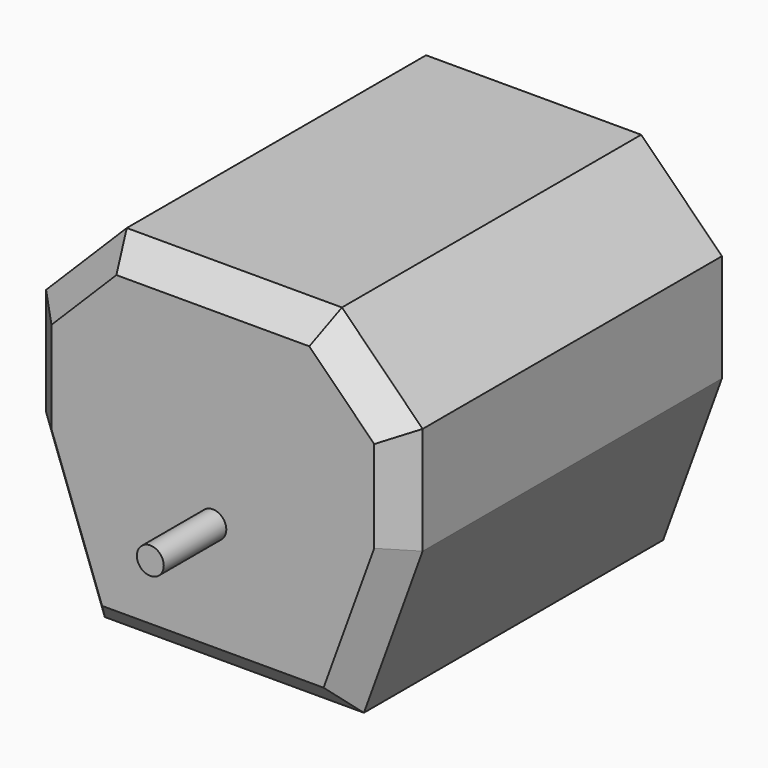
from build123d import *

# Parameters (mm, degrees)
F0_W       = 355.6
F0_H       = 330.2
F0_R       = 12.7
F1_DEPTH   = 406.4
F2_DEPTH   = 73.81875
F3_SIZE    = 76.2
F4_SIZE2   = 55.4690637022
F4_SIZE    = 152.4
F4_2_SIZE2 = 55.4690637022
F4_2_SIZE  = 152.4
F5_SIZE    = 25.4
F6_SIZE2   = 76.2
F6_SIZE    = 27.7345318511


with BuildPart() as f1:
    # F0 (on Front) → F1 (new body)
    with BuildSketch(Plane.XZ):
        with Locations((-25.4, 165.1)):
            Rectangle(F0_W, F0_H)
        with Locations((-25.4, 127)):
            Circle(F0_R, mode=Mode.SUBTRACT)
        with Locations((-25.4, 127)):
            Circle(F0_R)
    extrude(amount=-F1_DEPTH)

    # F0 (on Front) → F2 (join)
    with BuildSketch(Plane.XZ):
        with Locations((-25.4, 127)):
            Circle(F0_R)
    extrude(amount=F2_DEPTH)

    # F3
    f3_edges = [f1.edges().sort_by_distance(p)[0] for p in [
        (-203.2, 203.2, 330.2),
        (152.4, 203.2, 330.2),
    ]]
    chamfer(f3_edges, length=F3_SIZE)

    # F4
    f4_edges = [f1.edges().sort_by_distance(p)[0] for p in [
        (-203.2, 203.2, 0),
    ]]
    f4_side = f1.faces().sort_by_distance((-203.2, 203.2, 127))[0]
    chamfer(f4_edges, length=F4_SIZE, length2=F4_SIZE2, reference=f4_side)

    # F4#2
    f4_2_edges = [f1.edges().sort_by_distance(p)[0] for p in [
        (152.4, 203.2, 0),
    ]]
    f4_2_side = f1.faces().sort_by_distance((152.4, 203.2, 127))[0]
    chamfer(f4_2_edges, length=F4_2_SIZE, length2=F4_2_SIZE2, reference=f4_2_side)

    # F5
    f5_edges = [f1.edges().sort_by_distance(p)[0] for p in [
        (-165.1, 0, 292.1),
        (-203.2, 0, 203.2),
        (-175.465468, 0, 76.2),
        (-25.4, 0, 0),
        (124.665468, 0, 76.2),
        (152.4, 0, 203.2),
        (114.3, 0, 292.1),
        (-25.4, 0, 330.2),
    ]]
    chamfer(f5_edges, length=F5_SIZE)

    # F6
    f6_edges = [f1.edges().sort_by_distance(p)[0] for p in [
        (-175.465468, 406.4, 76.2),
        (-203.2, 406.4, 203.2),
        (-165.1, 406.4, 292.1),
        (-25.4, 406.4, 330.2),
        (-25.4, 406.4, 0),
        (124.665468, 406.4, 76.2),
        (152.4, 406.4, 203.2),
        (114.3, 406.4, 292.1),
    ]]
    chamfer(f6_edges, length=F6_SIZE, length2=F6_SIZE2)


solid = f1.part
